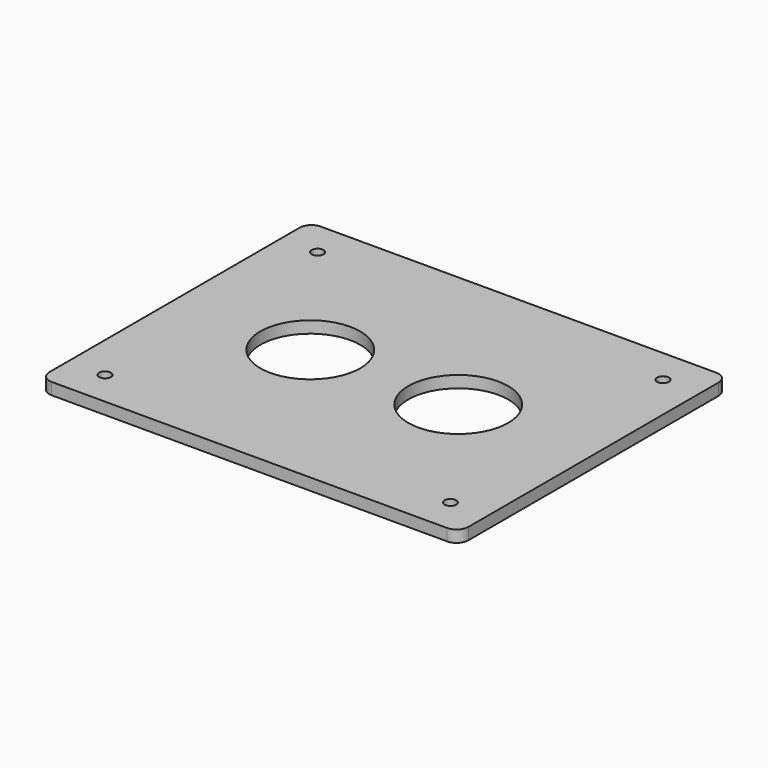
from build123d import *

# Parameters (mm, degrees)
F0_W     = 71
F0_H     = 57
F0_R     = 8.464637
F1_DEPTH = 2
F2_R     = 2
F4_D     = 2


with BuildPart() as f1:
    # F0 (on Top) → F1 (new body)
    with BuildSketch(Plane.XY):
        Rectangle(F0_W, F0_H)
        with Locations((-12.535542, 0.055034)):
            Circle(F0_R, mode=Mode.SUBTRACT)
        with Locations((12.535542, 0.055034)):
            Circle(F0_R, mode=Mode.SUBTRACT)
    extrude(amount=F1_DEPTH)

    # F2
    f2_edges = [f1.edges().sort_by_distance(p)[0] for p in [
        (-35.5, 28.5, 1),
        (35.5, 28.5, 1),
        (35.5, -28.5, 1),
        (-35.5, -28.5, 1),
    ]]
    fillet(f2_edges, radius=F2_R)

    # F4 (through all)
    with Locations(Plane.XY.offset(2)):
        with Locations((-29.260905, 22.518175), (29.260905, 22.518175), (-29.260905, -22.518175), (29.260905, -22.518175)):
            Hole(F4_D / 2)


solid = f1.part
